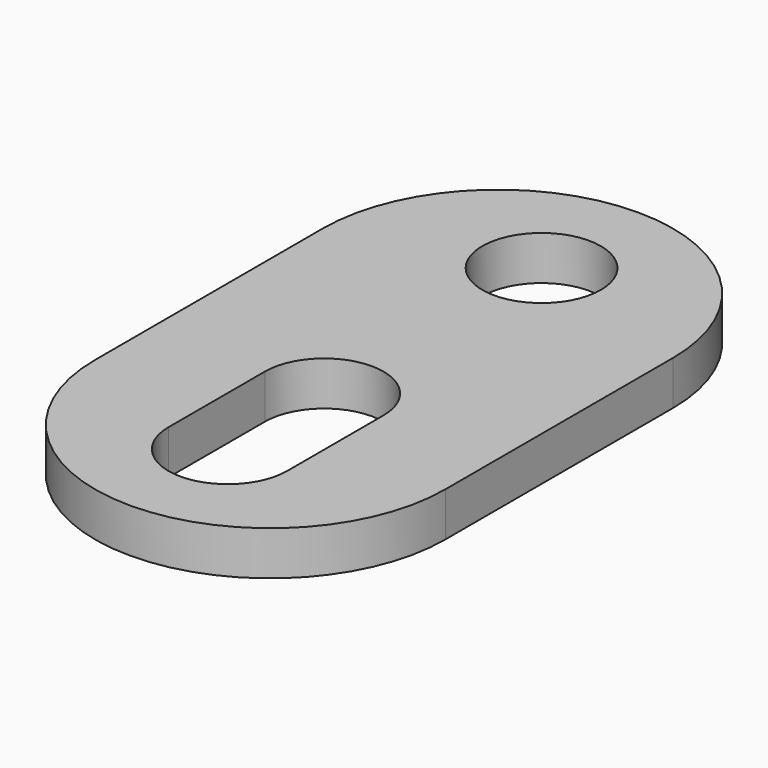
from build123d import *

# Parameters (mm, degrees)
PAD_DEPTH       = 1.6
SKETCH001_R     = 2.15
POCKET_DEPTH    = 1.601
POCKET001_DEPTH = 1.601


with BuildPart() as part:
    # Sketch → Pad (new body)
    with BuildSketch(Plane.XY):
        with BuildLine():
            ThreePointArc((6.35, -6.35), (0, 0), (-6.35, -6.35))
            Line((-6.35, -6.35), (-6.35, -16.67))
            ThreePointArc((-6.35, -16.67), (0, -23.02), (6.35, -16.67))
            Line((6.35, -6.35), (6.35, -16.67))
        make_face()
    extrude(amount=PAD_DEPTH)

    # Sketch001 (on Face6 of Pad) → Pocket (cut, through all)
    with BuildSketch(Plane.XY.offset(1.6)):
        with Locations((0, -4.37)):
            Circle(SKETCH001_R)
    extrude(amount=-POCKET_DEPTH, mode=Mode.SUBTRACT)

    # Sketch002 (on Face5 of Pocket) → Pocket001 (cut, through all)
    with BuildSketch(Plane.XY.offset(1.6)):
        with BuildLine():
            ThreePointArc((2.15, -14.22), (0, -12.07), (-2.15, -14.22))
            Line((-2.15, -14.22), (-2.15, -18.59))
            ThreePointArc((-2.15, -18.59), (0, -20.74), (2.15, -18.59))
            Line((2.15, -14.22), (2.15, -18.59))
        make_face()
    extrude(amount=-POCKET001_DEPTH, mode=Mode.SUBTRACT)


solid = part.part
